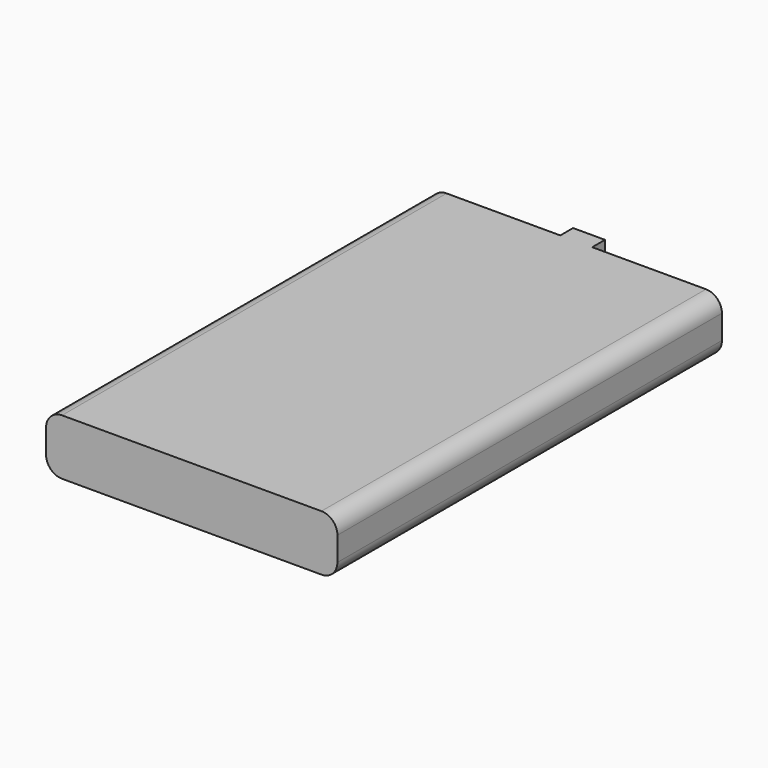
from build123d import *

# Parameters (mm, degrees)
F0_W     = 36.5
F0_H     = 60.22
F1_DEPTH = 7
F2_W     = 4
F2_H     = 7
F3_DEPTH = 2
F4_R     = 2


with BuildPart() as f1:
    # F0 (on Top) → F1 (new body)
    with BuildSketch(Plane.XY):
        Rectangle(F0_W, F0_H)
    extrude(amount=F1_DEPTH)

    # F2 (on face) → F3 (join)
    with BuildSketch(Plane(origin=(0, 30.11, 0), x_dir=(-1, 0, 0), z_dir=(0, 1, 0))):
        with Locations((0, 3.5)):
            Rectangle(F2_W, F2_H)
    extrude(amount=F3_DEPTH)

    # F4
    f4_edges = [f1.edges().sort_by_distance(p)[0] for p in [
        (18.25, 0, 7),
        (18.25, 0, 0),
        (-18.25, 0, 7),
        (-18.25, 0, 0),
    ]]
    fillet(f4_edges, radius=F4_R)


solid = f1.part
